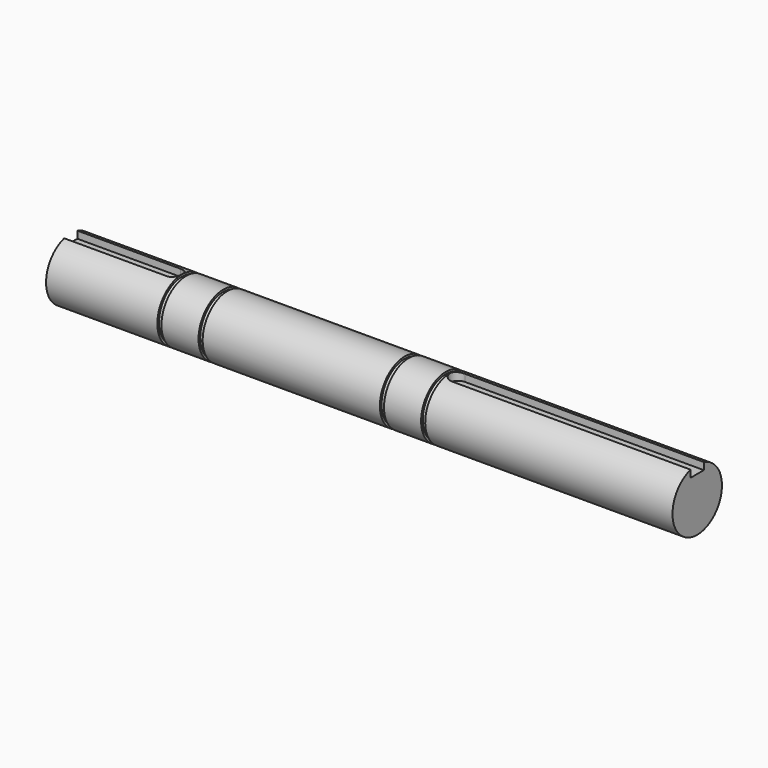
from build123d import *

# Parameters (mm, degrees)
F4_DEPTH = 2


with BuildPart() as f1:
    # F0 (on Front) → F1 (revolve)
    with BuildSketch(Plane.XZ):
        Polygon((0, 7.5), (0, 0), (152, 0), (152, 7.5), (92, 7.5), (92, 7), (91, 7), (91, 7.5), (82, 7.5), (82, 7), (81, 7), (81, 7.5), (38, 7.5), (38, 7), (37, 7), (37, 7.5), (28, 7.5), (28, 7), (27, 7), (27, 7.5), align=None)
    revolve(axis=Axis((76, 0, 0), (-1, 0, 0)))

    # F3 (on offset) → F4 (cut)
    with BuildSketch(Plane.XY.offset(7.5)):
        with BuildLine():
            Line((0, 2), (0, 0))
            Line((0, 0), (0, -2))
            Line((0, -2), (24.999, -2))
            ThreePointArc((24.999, -2), (26.999, 0), (24.999, 2))
            Line((24.999, 2), (0, 2))
        make_face()
        with BuildLine():
            Line((152, -2), (152, 0))
            Line((152, 0), (152, 2))
            Line((152, 2), (94, 2))
            ThreePointArc((94, 2), (92.001, -0.0005), (94.001, -2))
            Line((94.001, -2), (152, -2))
        make_face()
    extrude(amount=-F4_DEPTH, mode=Mode.SUBTRACT)


solid = f1.part
